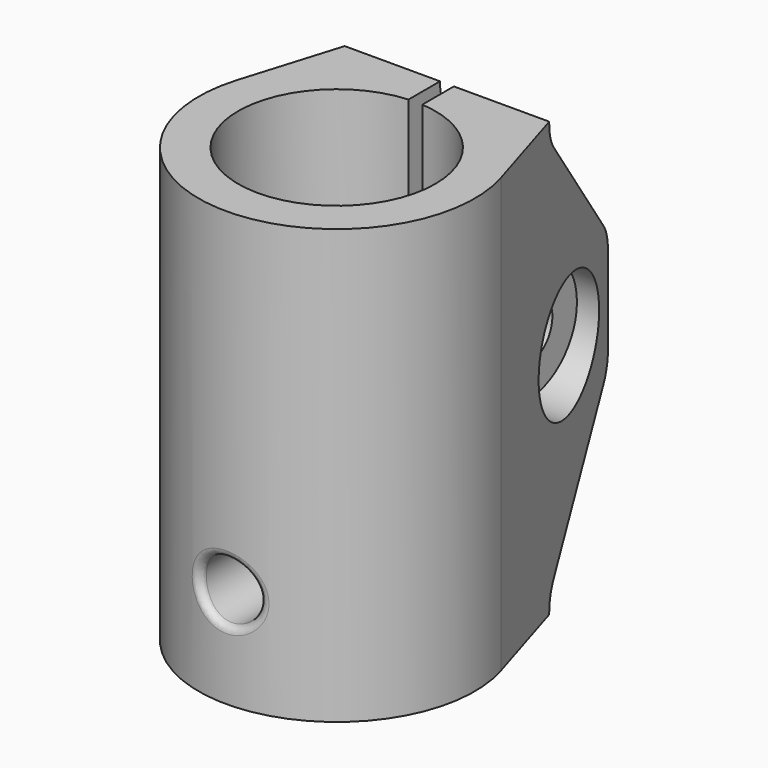
from build123d import *

# Parameters (mm, degrees)
EXTRUDE003_DEPTH                     = 10
SKETCH005_R                          = 3.1
EXTRUDE002_DEPTH                     = 10
SKETCH003_AS_DRAWN_R                 = 1.5
EXTRUDE001_DEPTH                     = 10
EXTRUDE001_ONTO_SKETCH003_ROLL_ANGLE = 90
EXTRUDE_DEPTH                        = 22
SKETCH001_R                          = 5
POCKET_DEPTH                         = 15
SKETCH002_R                          = 3
POCKET001_DEPTH                      = 4
FILLET_R                             = 0.35
SKETCH004_R                          = 1.55
POCKET002_DEPTH                      = 6.651
POCKET002_DEPTH_BACK                 = -7.351
FILLET001_R                          = 2


with BuildPart() as extrude003:
    # Sketch006 → Extrude003 (new body)
    with BuildSketch(Plane(origin=(-2.5, 0, 0), x_dir=(0, -1, 0), z_dir=(-1, 0, 0))):
        Polygon((-9, 14.1), (-11.684679, 12.55), (-11.684679, 9.45), (-9, 7.9), (-6.315321, 9.45), (-6.315321, 12.55), align=None)
    extrude(amount=EXTRUDE003_DEPTH)


with BuildPart() as extrude002:
    # Sketch005 → Extrude002 (new body)
    with BuildSketch(Plane.YZ.offset(2.5)):
        with Locations((9, 11)):
            Circle(SKETCH005_R)
    extrude(amount=EXTRUDE002_DEPTH)


with BuildPart() as extrude001:
    # Sketch003 as drawn → Extrude001 (new)
    with BuildSketch(Plane.XY):
        with Locations((0, 5)):
            Circle(SKETCH003_AS_DRAWN_R)
    extrude(amount=EXTRUDE001_DEPTH)


with BuildPart() as extrude001_1:
    # Extrude001 onto Sketch003 roll: moved
    add(extrude001.part.rotate(Axis((0, 0, 0), (1, 0, 0)), EXTRUDE001_ONTO_SKETCH003_ROLL_ANGLE))


with BuildPart() as extrude001_2:
    # Extrude001 onto Sketch003 placement: moved
    add(extrude001_1.part)


with BuildPart() as fillet001:
    # Sketch → Extrude (new body)
    with BuildSketch(Plane.XY):
        with BuildLine():
            ThreePointArc((-0.35, 1.509967), (0, -1.55), (0.35, 1.509967))
            Line((0.35, 1.509967), (0.35, 13))
            Line((0.35, 13), (3.35, 13))
            Line((3.35, 13), (6.694934, 2.043982))
            ThreePointArc((-6.694921, 2.044024), (-2.2e-05, -7), (6.694934, 2.043982))
            Line((-6.694921, 2.044024), (-3.35, 13))
            Line((-3.35, 13), (-0.35, 13))
            Line((-0.35, 13), (-0.35, 1.509967))
        make_face()
    extrude(amount=EXTRUDE_DEPTH)

    # Sketch001 → Pocket (cut)
    with BuildSketch(Plane.XY.offset(22)):
        Circle(SKETCH001_R)
    extrude(amount=-POCKET_DEPTH, mode=Mode.SUBTRACT)

    # Sketch002 → Pocket001 (cut)
    with BuildSketch(Plane.XY.offset(7)):
        Circle(SKETCH002_R)
    extrude(amount=-POCKET001_DEPTH, mode=Mode.SUBTRACT)

    # Cut: cut Extrude001
    add(extrude001_2.part, mode=Mode.SUBTRACT)

    # Fillet
    fillet_edges = [fillet001.edges().sort_by_distance(p)[0] for p in [
        (-1.5, -6.837397, 5),
        (-1.5, -2.598076, 5),
    ]]
    fillet(fillet_edges, radius=FILLET_R)

    # Sketch004 → Pocket002 (cut, two sides)
    with BuildSketch(Plane.YZ.offset(-0.35)) as pocket002_sk:
        with Locations((8.993867, 11)):
            Circle(SKETCH004_R)
        Polygon((6.987735, 22), (6.987735, 21.165138), (13, 14), (13, 22), align=None)
        Polygon((13, 8), (6.987735, 0.834862), (6.987735, 0), (13, 0), align=None)
    extrude(amount=-POCKET002_DEPTH, mode=Mode.SUBTRACT)
    extrude(pocket002_sk.sketch, amount=-POCKET002_DEPTH_BACK, mode=Mode.SUBTRACT)

    # Cut001: cut Extrude002
    add(extrude002.part, mode=Mode.SUBTRACT)

    # Cut003: cut Extrude003
    add(extrude003.part, mode=Mode.SUBTRACT)

    # Fillet001
    fillet001_edges = [fillet001.edges().sort_by_distance(p)[0] for p in [
        (-2.767789, 6.987735, 0.834862),
        (-1.85, 13, 8),
        (-2.767789, 6.987735, 21.165138),
        (-1.85, 13, 14),
        (2.767789, 6.987735, 0.834862),
        (2.767789, 6.987735, 21.165138),
        (1.85, 13, 8),
        (1.85, 13, 14),
    ]]
    fillet(fillet001_edges, radius=FILLET001_R)


solid = fillet001.part
